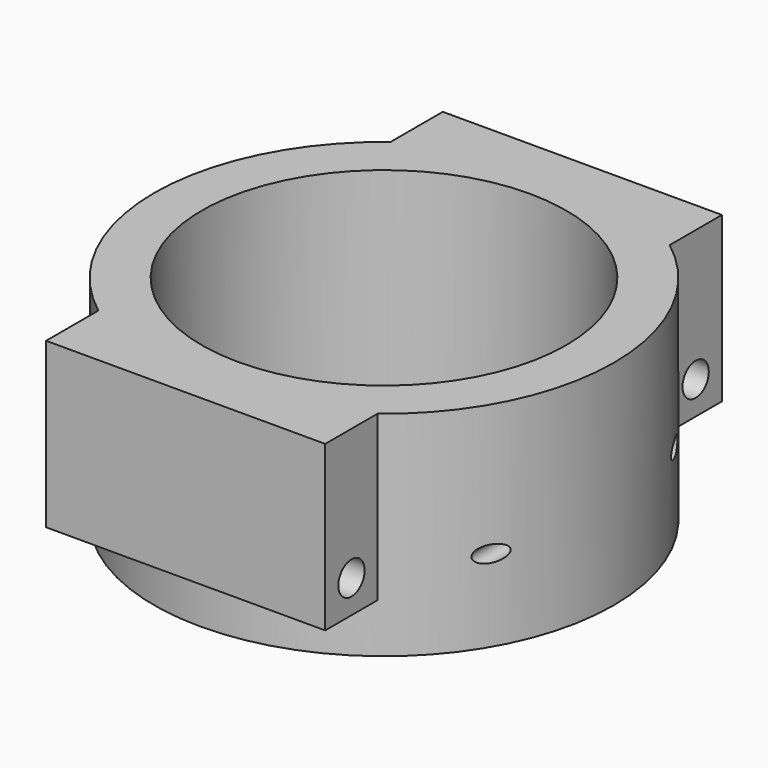
from build123d import *

# Parameters (mm, degrees)
SKETCH_R           = 14
PAD_DEPTH          = 13
SKETCH001_R        = 11.1
POCKET_DEPTH       = 13.001
SKETCH002_W        = 17
SKETCH002_H        = 4
PAD001_DEPTH       = 10
POLARPATTERN_COUNT = 2
SKETCH003_R        = 0.5
POCKET001_DEPTH    = 111.473218
SKETCH004_R        = 1
POCKET002_DEPTH    = 110.373218


with BuildPart() as part:
    # Sketch → Pad (new body)
    with BuildSketch(Plane.XY):
        Circle(SKETCH_R)
    extrude(amount=PAD_DEPTH)

    # Sketch001 → Pocket (cut, through all)
    with BuildSketch(Plane.XY.offset(13)):
        Circle(SKETCH001_R)
    extrude(amount=-POCKET_DEPTH, mode=Mode.SUBTRACT)

    # Sketch002 → Pad001 (new body)
    with BuildSketch(Plane.XY.offset(13)):
        with Locations((0, 13.1)):
            Rectangle(SKETCH002_W, SKETCH002_H)
    pad001 = extrude(amount=-PAD001_DEPTH)

    # PolarPattern: Pad001 ×2 about axis
    polarpattern_axis = Axis((0, 0, 13), (0, 0, 1))
    for i in range(1, POLARPATTERN_COUNT):
        add(pad001.rotate(polarpattern_axis, i * 360 / POLARPATTERN_COUNT))

    # Sketch003 → Pocket001 (cut, through all)
    with BuildSketch(Plane.XZ.offset(10)):
        with Locations((12.1, 5)):
            Circle(SKETCH003_R)
    pocket001 = extrude(amount=-POCKET001_DEPTH, mode=Mode.SUBTRACT)

    # Mirrored: Pocket001 across Sketch003 V_Axis
    add(pocket001.mirror(Plane(origin=(0, -10, 0), x_dir=(0, -1, 0), z_dir=(1, 0, 0))), mode=Mode.SUBTRACT)

    # Sketch004 → Pocket002 (cut, through all)
    with BuildSketch(Plane(origin=(-10, 0, 0), x_dir=(0, -1, 0), z_dir=(-1, 0, 0))):
        with Locations((13.1, 5)):
            Circle(SKETCH004_R)
    pocket002 = extrude(amount=-POCKET002_DEPTH, mode=Mode.SUBTRACT)

    # Mirrored001: Pocket002 across Sketch004 V_Axis
    add(pocket002.mirror(Plane(origin=(-10, 0, 0), x_dir=(-1, 0, 0), z_dir=(0, -1, 0))), mode=Mode.SUBTRACT)


solid = part.part
